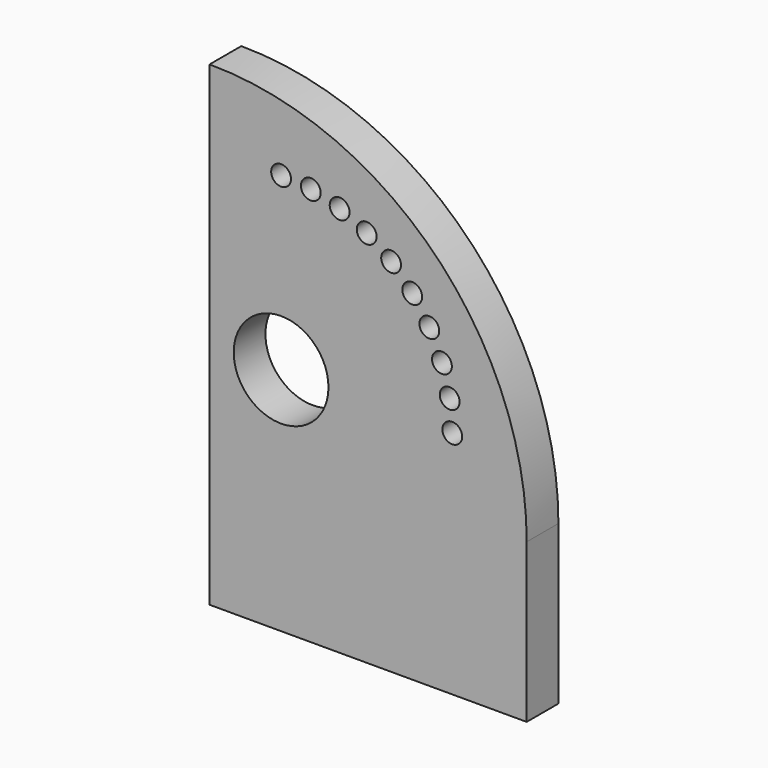
from build123d import *

# Parameters (mm, degrees)
F2_R     = 30.353
F2_R_2   = 6.35
F2_W     = 203.2
F2_H     = 101.6
F3_DEPTH = 25.4


with BuildPart() as f3:
    # F2 (on Front) → F3 (new body)
    with BuildSketch(Plane.XZ):
        with BuildLine():
            Line((0, 203.2), (0, 0))
            Line((0, 0), (203.2, 0))
            ThreePointArc((203.2, 0), (143.684098, 143.684098), (0, 203.2))
        make_face()
        with Locations((45.8216, 45.8216)):
            Circle(F2_R, mode=Mode.SUBTRACT)
        with Locations((155.4988, 45.8216)):
            Circle(F2_R_2, mode=Mode.SUBTRACT)
        with Locations((45.8216, 155.4988)):
            Circle(F2_R_2, mode=Mode.SUBTRACT)
        with Locations((64.866846, 153.832557)):
            Circle(F2_R_2, mode=Mode.SUBTRACT)
        with Locations((100.6602, 140.804841)):
            Circle(F2_R_2, mode=Mode.SUBTRACT)
        with Locations((83.333412, 148.884456)):
            Circle(F2_R_2, mode=Mode.SUBTRACT)
        with Locations((148.884456, 83.333412)):
            Circle(F2_R_2, mode=Mode.SUBTRACT)
        with Locations((140.804841, 100.6602)):
            Circle(F2_R_2, mode=Mode.SUBTRACT)
        with Locations((129.83921, 116.320745)):
            Circle(F2_R_2, mode=Mode.SUBTRACT)
        with Locations((153.832557, 64.866846)):
            Circle(F2_R_2, mode=Mode.SUBTRACT)
        with Locations((116.320745, 129.83921)):
            Circle(F2_R_2, mode=Mode.SUBTRACT)
        with Locations((101.6, -50.8)):
            Rectangle(F2_W, F2_H)
    extrude(amount=F3_DEPTH)


solid = f3.part
